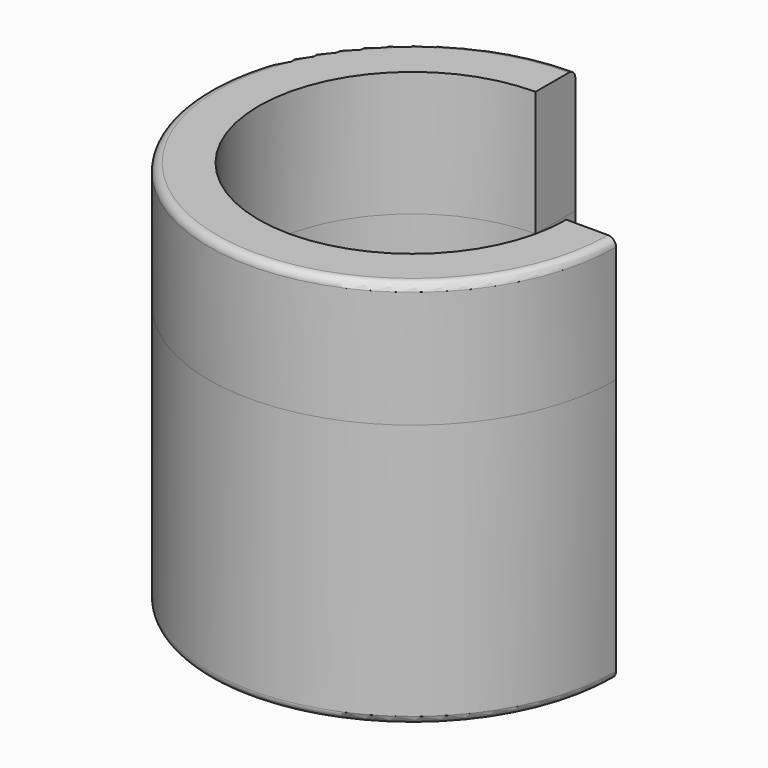
from build123d import *

# Parameters (mm, degrees)
F0_R     = 12.7
F0_R_2   = 9.6
F1_DEPTH = 16.5
F2_W     = 14.3193947151
F2_H     = 14.0517447144
F3_DEPTH = 16.501
F4_DEPTH = 7.8
F5_R     = 0.5


with BuildPart() as f1:
    # F0 (on Top) → F1 (new body)
    with BuildSketch(Plane.XY):
        Circle(F0_R)
        Circle(F0_R_2, mode=Mode.SUBTRACT)
    extrude(amount=F1_DEPTH)

    # F2 (on face) → F3 (cut, through all)
    with BuildSketch(Plane.XY.offset(16.5)):
        with Locations((7.1596973576, 7.0258723572)):
            Rectangle(F2_W, F2_H)
    extrude(amount=-F3_DEPTH, mode=Mode.SUBTRACT)

    # F4 (add): a face of the model
    f4_faces = [f1.faces().sort_by_distance(p)[0] for p in [
        (-8.7262561211, -8.7262561211, 16.5),
    ]]
    extrude(f4_faces, amount=F4_DEPTH)

    # F5
    f5_edges = [f1.edges().sort_by_distance(p)[0] for p in [
        (-8.980256, -8.980256, 24.3),
        (-8.980256, -8.980256, 0),
    ]]
    fillet(f5_edges, radius=F5_R)


solid = f1.part
